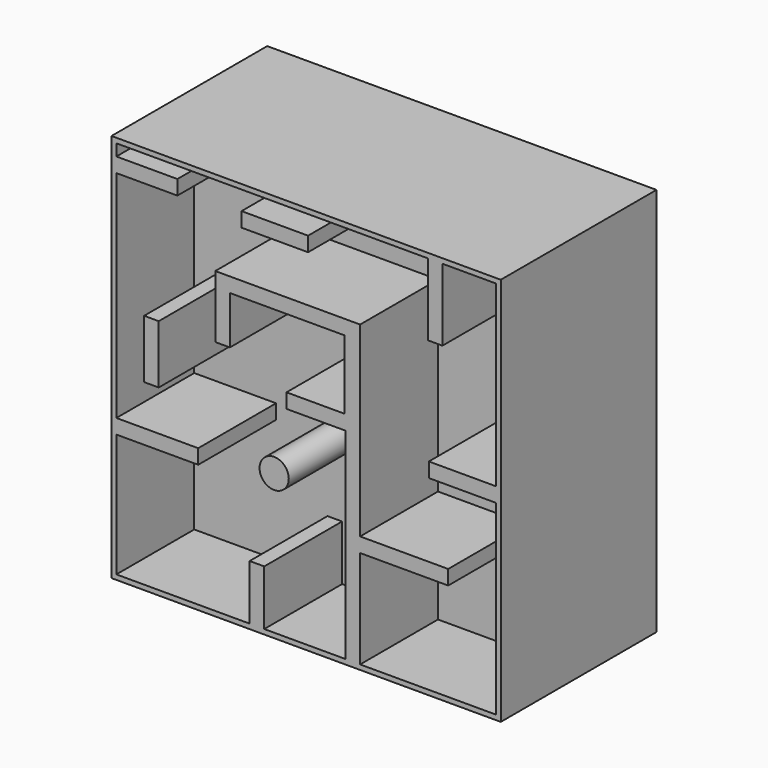
from build123d import *

# Parameters (mm, degrees)
F0_W     = 101.6
F0_H     = 101.6
F1_DEPTH = 50.8
F2_R     = 6.35
F2_W     = 3.81
F2_H     = 15.24
F3_DEPTH = 25.4
F4_DEPTH = 25.4
F5_R     = 3.81
F6_DEPTH = 25.4
F7_W     = 17.3609867041
F7_H     = 3.81
F8_DEPTH = 25.4


with BuildPart() as f1:
    # F0 (on Front) → F1 (new body)
    with BuildSketch(Plane.XZ):
        with Locations((5.1293180704, -12.2499571562)):
            Rectangle(F0_W, F0_H)
    extrude(amount=F1_DEPTH)

    # F2 (on face) → F3 (cut)
    with BuildSketch(Plane.XZ.offset(50.8)):
        Polygon((-44.4006819296, -61.7799571562), (-9.6185971051, -61.7799571562), (-9.6185971051, -47.394759953), (-5.8085971051, -47.394759953), (-5.8085971051, -61.7799571562), (15.406456776, -61.7799571562), (15.406456776, -9.3114990741), (0, -9.3114990741), (0, -5.5014990741), (15.0989042595, -5.5014990741), (15.0989042595, 12.511465373), (-14.7801354998, 12.511465373), (-14.7801354998, 0), (-18.5901354998, 0), (-18.5901354998, 16.321465373), (19.216456776, 16.321465373), (19.216456776, -9.3114990741), (19.216456776, -32.3707281151), (42.2014451125, -32.3707281151), (42.2014451125, -36.1807281151), (19.216456776, -36.1807281151), (19.216456776, -61.7799571562), (54.6593180704, -61.7799571562), (54.6593180704, -13.1214990741), (37.1567495167, -13.1214990741), (37.1567495167, -9.3114990741), (54.6593180704, -9.3114990741), (54.6593180704, 37.2800428438), (40.6969267404, 37.2800428438), (40.6969267404, 18.445818873), (36.8869267404, 18.445818873), (36.8869267404, 37.2800428438), (-44.4006819296, 37.2800428438), (-44.4006819296, 34.2450219667), (-28.477134183, 34.2450219667), (-28.477134183, 30.4350219667), (-44.4006819296, 30.4350219667), (-44.4006819296, -25.837719115), (-23.0449512601, -25.837719115), (-23.0449512601, -29.647719115), (-44.4006819296, -29.647719115), align=None)
        with Locations((42.5943210721, -53.744759953)):
            Circle(F2_R, mode=Mode.SUBTRACT)
        with Locations((-35.2517495167, -7.62)):
            Rectangle(F2_W, F2_H, mode=Mode.SUBTRACT)
    extrude(amount=-F3_DEPTH, mode=Mode.SUBTRACT)

    # F4 (cut): a face of the model
    f4_faces = [f1.faces().sort_by_distance(p)[0] for p in [
        (42.5943210721, -50.8, -53.744759953),
    ]]
    extrude(f4_faces, amount=-F4_DEPTH, mode=Mode.SUBTRACT)

    # F5 (on face) → F6 (join)
    with BuildSketch(Plane.XZ.offset(25.4)):
        with Locations((-3.2175863162, -25.1911561936)):
            Circle(F5_R)
    extrude(amount=F6_DEPTH)

    # F7 (on face) → F8 (join)
    with BuildSketch(Plane.XZ.offset(25.4)):
        with Locations((-3.052091491, 30.4140888332)):
            Rectangle(F7_W, F7_H)
    extrude(amount=F8_DEPTH)


solid = f1.part
